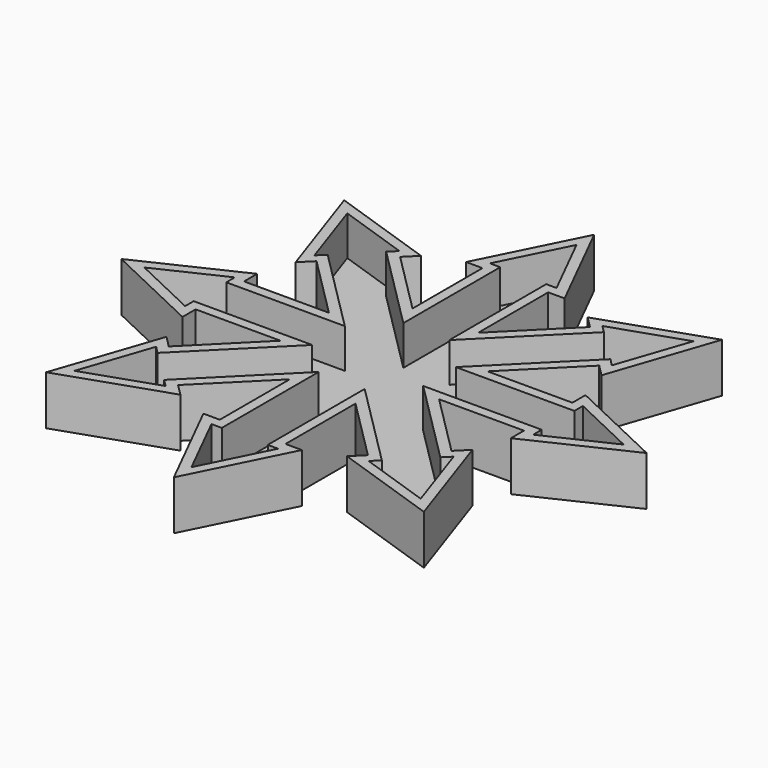
from build123d import *

# Parameters (mm, degrees)
F1_DEPTH = 10
F2_DEPTH = 5
F3_T     = -3


with BuildPart() as f1:
    # F0 (on Top) → F1 (new body)
    with BuildSketch(Plane.XY):
        Polygon((-24.1421356237, 9.2129365882), (-50, 9.2129365882), (-50, 14.2129365882), (-80, 0), (-50, 0), (0, 0), (0, 50), (0, 80), (-15, 50), (-10, 50), (-10, 23.3550722119), (-10, 9.2129365882), align=None)
        Polygon((-43.0507218531, 28.1215228176), (-24.1421356237, 9.2129365882), (-10, 9.2129365882), (-35.9796540413, 35.1925906294), align=None)
        Polygon((-35.9796540413, 35.1925906294), (-10, 9.2129365882), (-10, 23.3550722119), (-28.9085862294, 42.2636584413), align=None)
        Polygon((-46.5862557591, 24.5859889116), (-43.0507218531, 28.1215228176), (-35.9796540413, 35.1925906294), (-57.5228781318, 56.73581472), align=None)
        Polygon((-50, 0), (-80, 0), (-50, -14.2129365882), (-50, -9.2129365882), (-24.1421356237, -9.2129365882), (-10, -9.2129365882), (-10, -23.3550722119), (-10, -50), (-15, -50), (0, -80), (0, -50), (0, 0), align=None)
        Polygon((-57.5228781318, 56.73581472), (-35.9796540413, 35.1925906294), (-28.9085862294, 42.2636584413), (-25.3730523235, 45.7991923472), align=None)
        Polygon((0, 50), (0, 0), (50, 0), (80, 0), (50, 14.2129365882), (50, 9.2129365882), (24.1421356237, 9.2129365882), (10, 9.2129365882), (10, 23.3550722119), (10, 50), (15, 50), (0, 80), align=None)
        Polygon((50, 0), (0, 0), (0, -50), (0, -80), (15, -50), (10, -50), (10, -23.3550722119), (10, -9.2129365882), (24.1421356237, -9.2129365882), (50, -9.2129365882), (50, -14.2129365882), (80, 0), align=None)
        Polygon((-10, -9.2129365882), (-24.1421356237, -9.2129365882), (-43.0507218531, -28.1215228176), (-35.9796540413, -35.1925906294), align=None)
        Polygon((-10, -23.3550722119), (-10, -9.2129365882), (-35.9796540413, -35.1925906294), (-28.9085862294, -42.2636584413), align=None)
        Polygon((-35.9796540413, -35.1925906294), (-43.0507218531, -28.1215228176), (-46.5862557591, -24.5859889116), (-57.5228781318, -56.73581472), align=None)
        Polygon((-28.9085862294, -42.2636584413), (-35.9796540413, -35.1925906294), (-57.5228781318, -56.73581472), (-25.3730523235, -45.7991923472), align=None)
        Polygon((28.9085862294, 42.2636584413), (10, 23.3550722119), (10, 9.2129365882), (35.9796540413, 35.1925906294), align=None)
        Polygon((10, 9.2129365882), (24.1421356237, 9.2129365882), (43.0507218531, 28.1215228176), (35.9796540413, 35.1925906294), align=None)
        Polygon((43.0507218531, -28.1215228176), (24.1421356237, -9.2129365882), (10, -9.2129365882), (35.9796540413, -35.1925906294), align=None)
        Polygon((10, -9.2129365882), (10, -23.3550722119), (28.9085862294, -42.2636584413), (35.9796540413, -35.1925906294), align=None)
        Polygon((25.3730523235, 45.7991923472), (28.9085862294, 42.2636584413), (35.9796540413, 35.1925906294), (57.5228781318, 56.73581472), align=None)
        Polygon((35.9796540413, 35.1925906294), (43.0507218531, 28.1215228176), (46.5862557591, 24.5859889116), (57.5228781318, 56.73581472), align=None)
        Polygon((46.5862557591, -24.5859889116), (43.0507218531, -28.1215228176), (35.9796540413, -35.1925906294), (57.5228781318, -56.73581472), align=None)
        Polygon((35.9796540413, -35.1925906294), (28.9085862294, -42.2636584413), (25.3730523235, -45.7991923472), (57.5228781318, -56.73581472), align=None)
    extrude(amount=F1_DEPTH)

    # F2 (add): a face of the model
    f2_faces = [f1.faces().sort_by_distance(p)[0] for p in [
        (0, 0, 10),
    ]]
    extrude(f2_faces, amount=F2_DEPTH)

    # F3
    f3_openings = [f1.faces().sort_by_distance(p)[0] for p in [
        (0, 0, 15),
    ]]
    offset(amount=F3_T, openings=f3_openings, kind=Kind.INTERSECTION)


solid = f1.part
